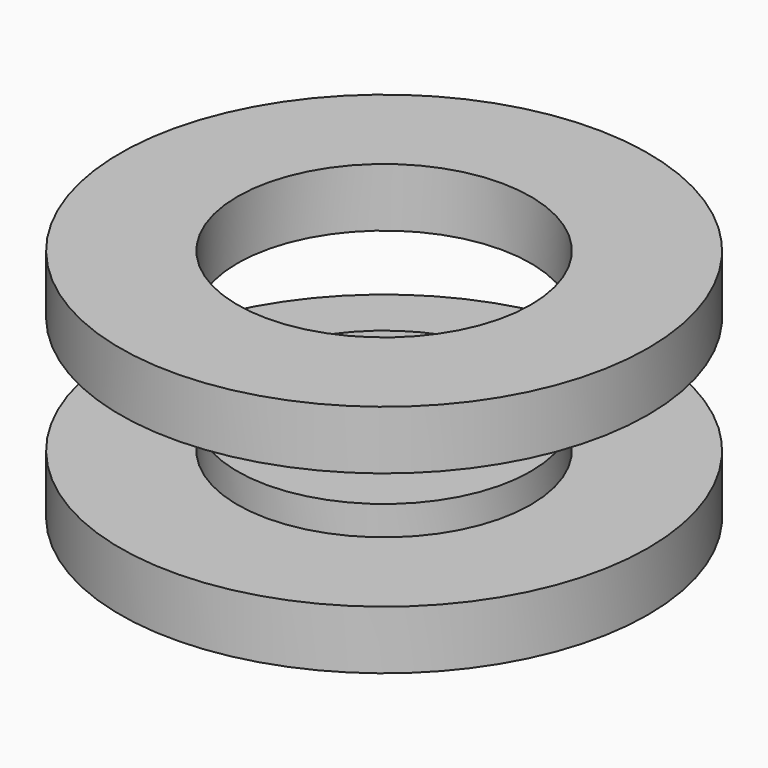
from build123d import *

# Parameters (mm, degrees)
CYLINDER002_R     = 1
CYLINDER002_DEPTH = 11
CYLINDER001_R     = 9
CYLINDER001_DEPTH = 2
CYLINDER_R        = 5
CYLINDER_DEPTH    = 3
CYLINDER004_R     = 5
CYLINDER004_DEPTH = 4
CYLINDER003_R     = 9
CYLINDER003_DEPTH = 2


with BuildPart() as cylinder002:
    # Cylinder002 → Cylinder002 (new body)
    with BuildSketch(Plane.XY.offset(-3)):
        Circle(CYLINDER002_R)
    extrude(amount=CYLINDER002_DEPTH)


with BuildPart() as cylinder001:
    # Cylinder001 → Cylinder001 (new body)
    with BuildSketch(Plane.XY):
        Circle(CYLINDER001_R)
    extrude(amount=CYLINDER001_DEPTH)


with BuildPart() as cut:
    # Cylinder → Cylinder (new body)
    with BuildSketch(Plane.XY):
        Circle(CYLINDER_R)
    extrude(amount=CYLINDER_DEPTH)

    # Fusion: union Cylinder001
    add(cylinder001.part)

    # Cut: cut Cylinder002
    add(cylinder002.part, mode=Mode.SUBTRACT)


with BuildPart() as cut_1:
    # Cut placement: moved
    add(cut.part.moved(Location((0, 0, -6))))


with BuildPart() as cylinder004:
    # Cylinder004 → Cylinder004 (new body)
    with BuildSketch(Plane.XY.offset(-1)):
        Circle(CYLINDER004_R)
    extrude(amount=CYLINDER004_DEPTH)


with BuildPart() as cut001:
    # Cylinder003 → Cylinder003 (new body)
    with BuildSketch(Plane.XY):
        Circle(CYLINDER003_R)
    extrude(amount=CYLINDER003_DEPTH)

    # Cut001: cut Cylinder004
    add(cylinder004.part, mode=Mode.SUBTRACT)


solid = Compound([cut_1.part, cut001.part])
